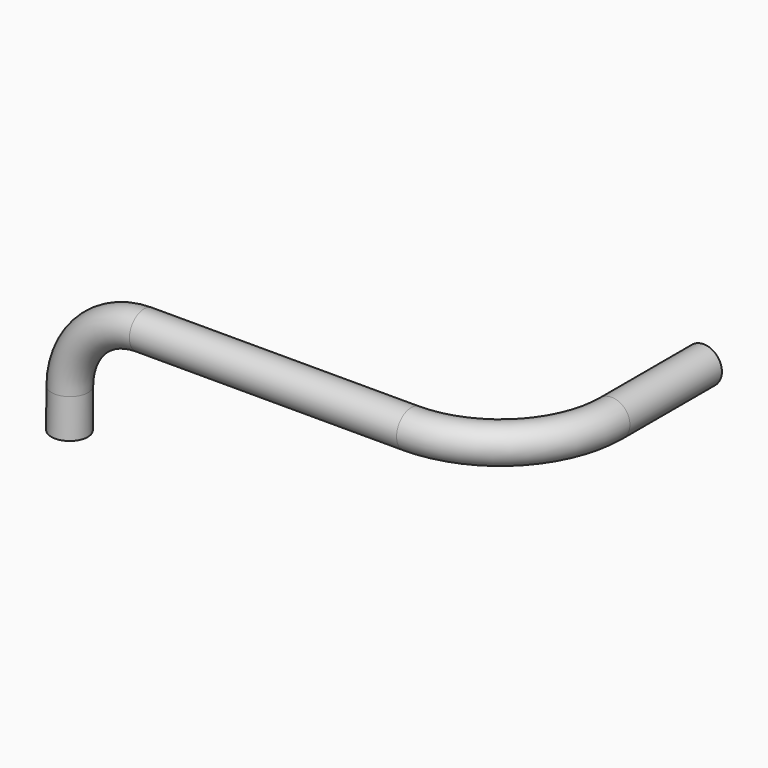
from build123d import *

# Parameters (mm, degrees)
F0_R   = 12.5
F0_R_2 = 6.35


with BuildPart() as f4:
    # F4: sweep along a path in F1, F3
    with BuildLine(Plane.XY) as f4_path:
        Line((0, 0), (0, -78.674))
        ThreePointArc((0, -78.674), (-22.3184632736, -132.5555367264), (-76.2, -154.874))
        Line((-76.2, -154.874), (-235.882, -154.874))
    with BuildLine(Plane.XZ.offset(154.874)) as f4_path_2:
        Line((-235.882, 0), (-258.9757317515, 0))
        ThreePointArc((-258.9757317515, 0), (-294.7448168404, -14.7276760951), (-309.7739216377, -50.371159374))
        Line((-309.7739216377, -50.371159374), (-310, -77.1512051091))
    # F0 (on Front) → F4 (sweep)
    with BuildSketch(Plane.XZ):
        Circle(F0_R)
        Circle(F0_R_2, mode=Mode.SUBTRACT)
    sweep(path=f4_path.line + f4_path_2.line)


solid = f4.part
